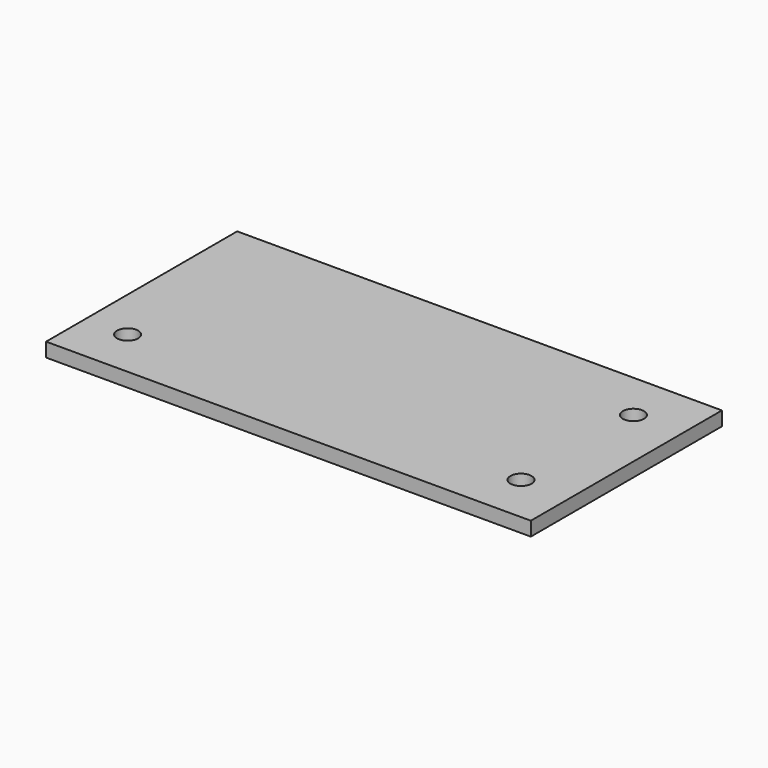
from build123d import *

# Parameters (mm, degrees)
F0_W     = 65
F0_H     = 30
F0_R     = 1.5
F0_H_2   = 2
F1_DEPTH = 2


with BuildPart() as f1:
    # F0 (on Top) → F1 (new body)
    with BuildSketch(Plane.XY):
        Rectangle(F0_W, F0_H)
        with Locations((-28.5, -10)):
            Circle(F0_R, mode=Mode.SUBTRACT)
        with Locations((27.5, -10)):
            Circle(F0_R, mode=Mode.SUBTRACT)
        with Locations((27.5, 10)):
            Circle(F0_R, mode=Mode.SUBTRACT)
        Polygon((-32.5, -15), (-32.5, 15), (-32.5, 17), (-34.5, 17), (-34.5, -17), (-32.5, -17), align=None)
        with Locations((0, 16)):
            Rectangle(F0_W, F0_H_2)
        with Locations((0, -16)):
            Rectangle(F0_W, F0_H_2)
        Polygon((32.5, 17), (32.5, 15), (32.5, -15), (32.5, -17), (34.5, -17), (34.5, 17), align=None)
    extrude(amount=F1_DEPTH)


solid = f1.part
